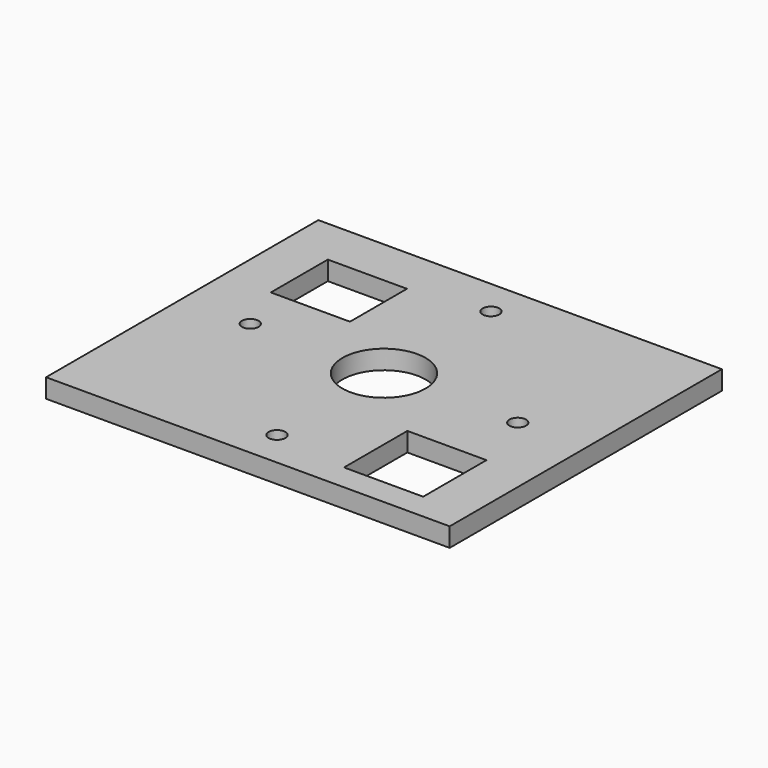
from build123d import *

# Parameters (mm, degrees)
F0_W     = 51
F0_H     = 43
F0_R     = 1.05
F0_W_2   = 10
F0_H_2   = 10
F0_R_2   = 5.25
F0_H_3   = 9
F1_DEPTH = 2.4


with BuildPart() as f1:
    # F0 (on Top) → F1 (new body)
    with BuildSketch(Plane.XY):
        with Locations((-36.876488, 29.491607)):
            Rectangle(F0_W, F0_H)
        with Locations((-53.776488, 29.491607)):
            Circle(F0_R, mode=Mode.SUBTRACT)
        with Locations((-36.876488, 12.591607)):
            Circle(F0_R, mode=Mode.SUBTRACT)
        with Locations((-22.376488, 16.304032)):
            Rectangle(F0_W_2, F0_H_2, mode=Mode.SUBTRACT)
        with Locations((-36.876488, 29.491607)):
            Circle(F0_R_2, mode=Mode.SUBTRACT)
        with Locations((-19.976488, 29.491607)):
            Circle(F0_R, mode=Mode.SUBTRACT)
        with Locations((-51.376488, 40.491607)):
            Rectangle(F0_W_2, F0_H_3, mode=Mode.SUBTRACT)
        with Locations((-36.876488, 46.391607)):
            Circle(F0_R, mode=Mode.SUBTRACT)
    extrude(amount=F1_DEPTH)


solid = f1.part
